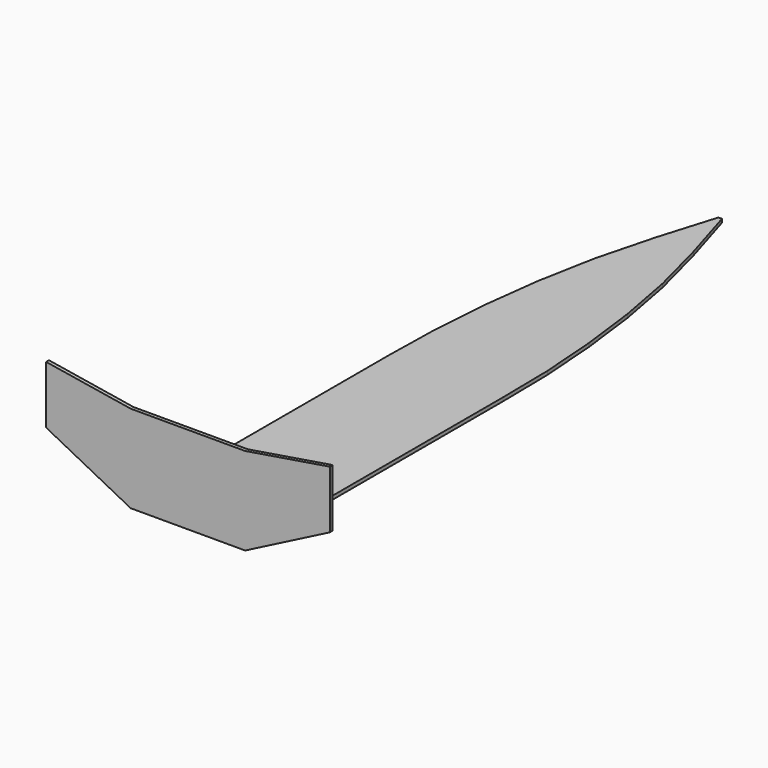
from build123d import *

# Parameters (mm, degrees)
F0_W     = 304.8
F0_H     = 234.95
F2_DEPTH = 19.05
F1_W     = 304.653347
F1_H     = 171.45
F1_W_2   = 302.976727
F3_DEPTH = 19.05


with BuildPart() as f2:
    # F0 (on Front) → F2 (new body)
    with BuildSketch(Plane.XZ):
        Polygon((-304.8, 0), (0, 0), (304.8, 0), (304.8, 231.775), (0, 231.775), (-304.8, 231.775), align=None)
        Polygon((304.8, 231.775), (304.8, 0), (755.65, 231.775), align=None)
        Polygon((-755.65, 231.775), (-304.8, 0), (-304.8, 231.775), align=None)
        Polygon((304.8, 231.775), (755.65, 231.775), (755.65, 539.75), (304.8, 466.725), align=None)
        with Locations((152.4, 349.25)):
            Rectangle(F0_W, F0_H)
        Polygon((-755.65, 539.75), (-755.65, 231.775), (-304.8, 231.775), (-304.8, 466.725), align=None)
        with Locations((-152.4, 349.25)):
            Rectangle(F0_W, F0_H)
    extrude(amount=F2_DEPTH)

    # F1 (on Top) → F3 (join)
    with BuildSketch(Plane.XY):
        with Locations((-152.326673, 85.725)):
            Rectangle(F1_W, F1_H)
        with Locations((151.488363, 85.725)):
            Rectangle(F1_W_2, F1_H)
        Polygon((-304.653347, 171.45), (0, 171.45), (0, 476.25), (0, 781.05), (0, 1085.85), (0, 1390.65), (0, 1695.45), (0, 2000.25), (-298.45, 2000.25), (-304.653347, 1701.346159), align=None)
        Polygon((0, 476.25), (0, 171.45), (302.976727, 171.45), (302.976727, 1701.346159), (298.45, 2000.25), (0, 2000.25), (0, 1695.45), (0, 1390.65), (0, 1085.85), (0, 781.05), align=None)
        Polygon((0, 2000.25), (298.45, 2000.25), (276.225, 2305.05), (0, 2305.05), align=None)
        Polygon((-276.225, 2305.05), (-298.45, 2000.25), (0, 2000.25), (0, 2305.05), align=None)
        Polygon((0, 2305.05), (276.225, 2305.05), (238.125, 2609.85), (0, 2609.85), align=None)
        Polygon((-238.125, 2609.85), (-276.225, 2305.05), (0, 2305.05), (0, 2609.85), align=None)
        Polygon((0, 2609.85), (238.125, 2609.85), (180.975, 2914.65), (0, 2914.65), align=None)
        Polygon((-180.975, 2914.65), (-238.125, 2609.85), (0, 2609.85), (0, 2914.65), align=None)
        Polygon((0, 2914.65), (180.975, 2914.65), (101.6, 3219.45), (0, 3219.45), align=None)
        Polygon((-101.6, 3219.45), (-180.975, 2914.65), (0, 2914.65), (0, 3219.45), align=None)
        Polygon((0, 3219.45), (101.6, 3219.45), (9.525, 3524.25), (0, 3524.25), align=None)
        Polygon((-9.525, 3524.25), (-101.6, 3219.45), (0, 3219.45), (0, 3524.25), align=None)
    extrude(amount=F3_DEPTH)


solid = f2.part
